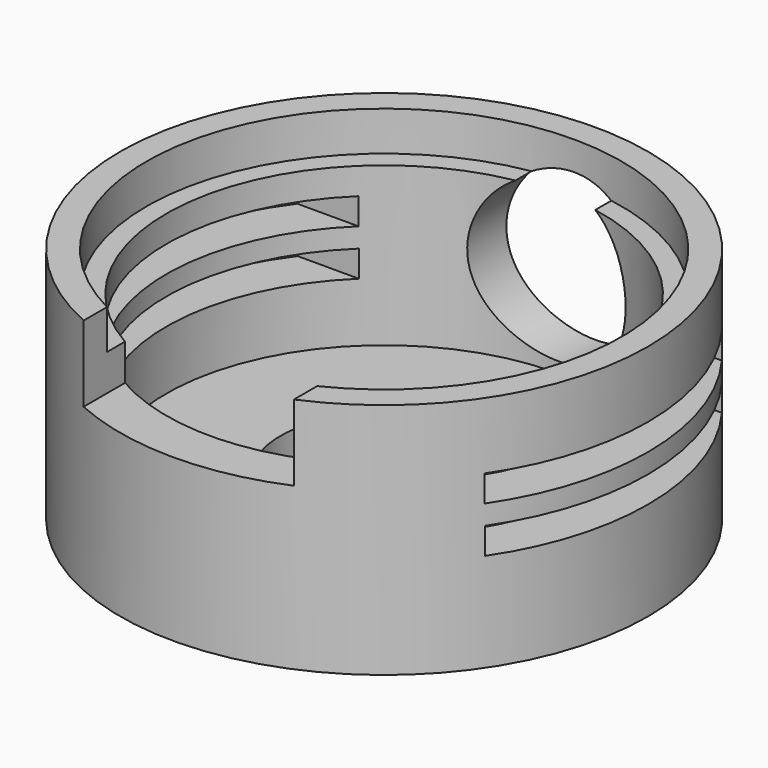
from build123d import *

# Parameters (mm, degrees)
F0_R      = 10
F1_DEPTH  = 9
F2_R      = 9
F3_DEPTH  = 1.5
F4_R      = 8.25
F5_DEPTH  = 6
F6_R      = 3.92
F7_DEPTH  = 1.501
F8_R      = 3
F9_DEPTH  = 10.001
F10_W     = 8.018549
F10_H     = 2.886699
F11_DEPTH = 25
F12_W     = 11.538846
F12_H     = 1.004787
F13_DEPTH = 25


with BuildPart() as f1:
    # F0 (on Top) → F1 (new body)
    with BuildSketch(Plane.XY):
        Circle(F0_R)
    extrude(amount=F1_DEPTH)

    # F2 (on face) → F3 (cut)
    with BuildSketch(Plane.XY.offset(9)):
        Circle(F2_R)
    extrude(amount=-F3_DEPTH, mode=Mode.SUBTRACT)

    # F4 (on face) → F5 (cut)
    with BuildSketch(Plane.XY.offset(7.5)):
        Circle(F4_R)
    extrude(amount=-F5_DEPTH, mode=Mode.SUBTRACT)

    # F6 (on face) → F7 (cut, through all)
    with BuildSketch(Plane.XY.offset(1.5)):
        Circle(F6_R)
    extrude(amount=-F7_DEPTH, mode=Mode.SUBTRACT)

    # F8 (on Front) → F9 (cut, through all)
    with BuildSketch(Plane.XZ):
        with Locations((0, 4.907787)):
            Circle(F8_R)
    extrude(amount=-F9_DEPTH, mode=Mode.SUBTRACT)

    # F10 (on Front) → F11 (cut)
    with BuildSketch(Plane.XZ):
        with Locations((-0.07208, 7.567474)):
            Rectangle(F10_W, F10_H)
    extrude(amount=F11_DEPTH, mode=Mode.SUBTRACT)

    # F12 (on Right) → F13 (cut, symmetric)
    with BuildSketch(Plane.YZ):
        with Locations((0.171022, 5.98548)):
            Rectangle(F12_W, F12_H)
        with Locations((0.179522, 4.236611)):
            Rectangle(F12_W, F12_H)
    extrude(amount=F13_DEPTH, both=True, mode=Mode.SUBTRACT)


solid = f1.part
